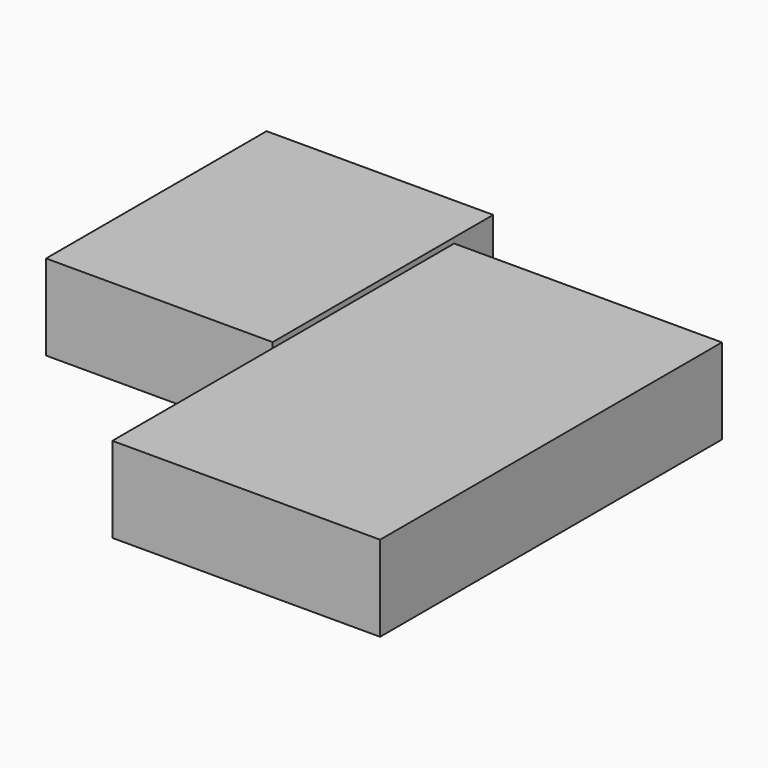
from build123d import *

# Parameters (mm, degrees)
F0_W     = 343.204111
F0_H     = 417.488858
F0_W_2   = 405.562486
F0_H_2   = 647.195532
F1_DEPTH = 129.54


with BuildPart() as f1:
    # F0 (on Top) → F1 (new body)
    with BuildSketch(Plane.XY):
        with Locations((-149.027481, -115.404673)):
            Rectangle(F0_W, F0_H)
        with Locations((235.163437, -316.319429)):
            Rectangle(F0_W_2, F0_H_2)
    extrude(amount=F1_DEPTH)


solid = f1.part
